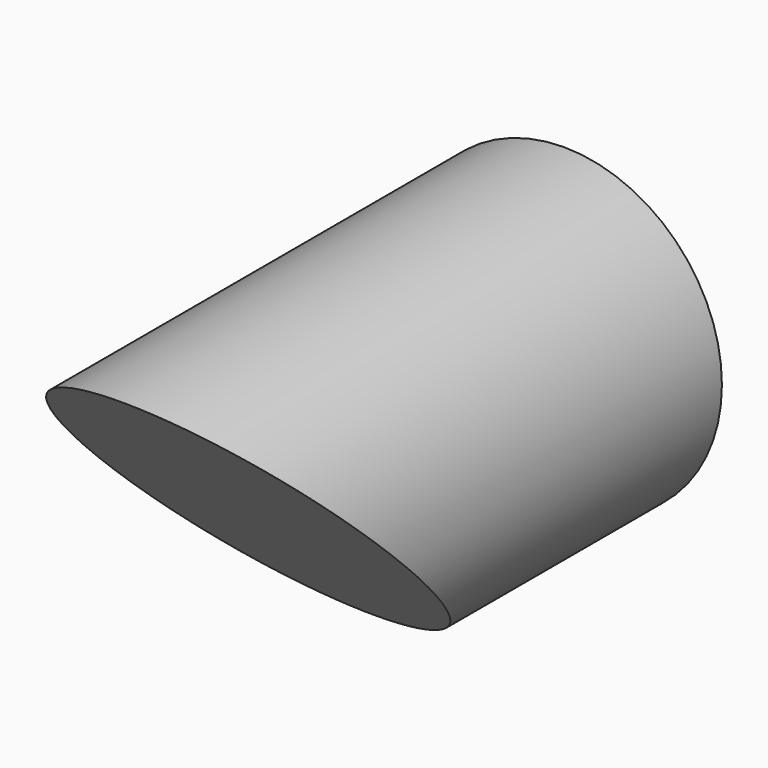
from build123d import *

# Parameters (mm, degrees)
F0_R     = 5
F1_DEPTH = 12.5
F3_W     = 50
F3_H     = 50
F4_DEPTH = 25
F5_R     = 2.5
F6_DEPTH = 5


with BuildPart() as f1:
    # F0 (on Front) → F1 (new body, symmetric)
    with BuildSketch(Plane.XZ):
        Circle(F0_R)
    extrude(amount=F1_DEPTH, both=True)

    # F3 (on face) → F4 (cut)
    with BuildSketch(Plane(origin=(0, 0, 0), x_dir=(-1, 0, 0), z_dir=(0, 0.707107, 0.707107))):
        Rectangle(F3_W, F3_H)
    extrude(amount=-F4_DEPTH, mode=Mode.SUBTRACT)

    # F5 (on face) → F6 (cut)
    with BuildSketch(Plane(origin=(0, 12.5, 0), x_dir=(-1, 0, 0), z_dir=(0, 1, 0))):
        Circle(F5_R)
    extrude(amount=-F6_DEPTH, mode=Mode.SUBTRACT)


solid = f1.part
